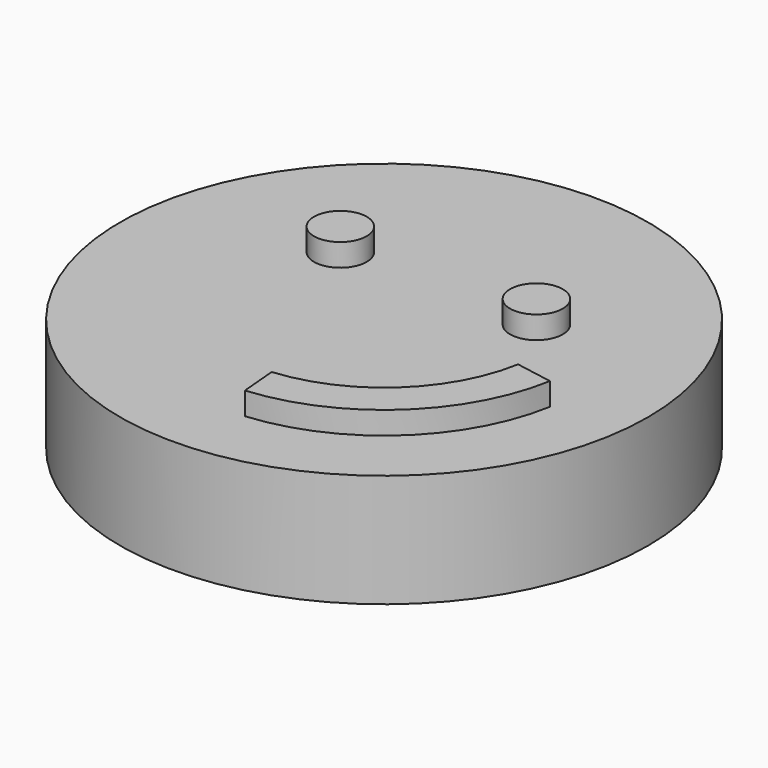
from build123d import *

# Parameters (mm, degrees)
F0_R     = 3.5
F1_DEPTH = 1.5
F2_R     = 0.35
F3_DEPTH = 1.8


with BuildPart() as f1:
    # F0 (on Top) → F1 (new body)
    with BuildSketch(Plane.XY):
        Circle(F0_R)
    extrude(amount=F1_DEPTH)

    # F2 (on Top) → F3 (join)
    with BuildSketch(Plane.XY):
        with Locations((-1.3, 0.9)):
            Circle(F2_R)
        with Locations((1.3, 0.9)):
            Circle(F2_R)
        with BuildLine():
            Line((0.183027, -2.092009), (0.226605, -2.590106))
            ThreePointArc((0.226605, -2.590106), (1.756535, -1.916921), (2.5605, -0.451485))
            Line((2.5605, -0.451485), (2.068096, -0.364661))
            ThreePointArc((2.068096, -0.364661), (1.418739, -1.548282), (0.183027, -2.092009))
        make_face()
    extrude(amount=F3_DEPTH)


solid = f1.part
